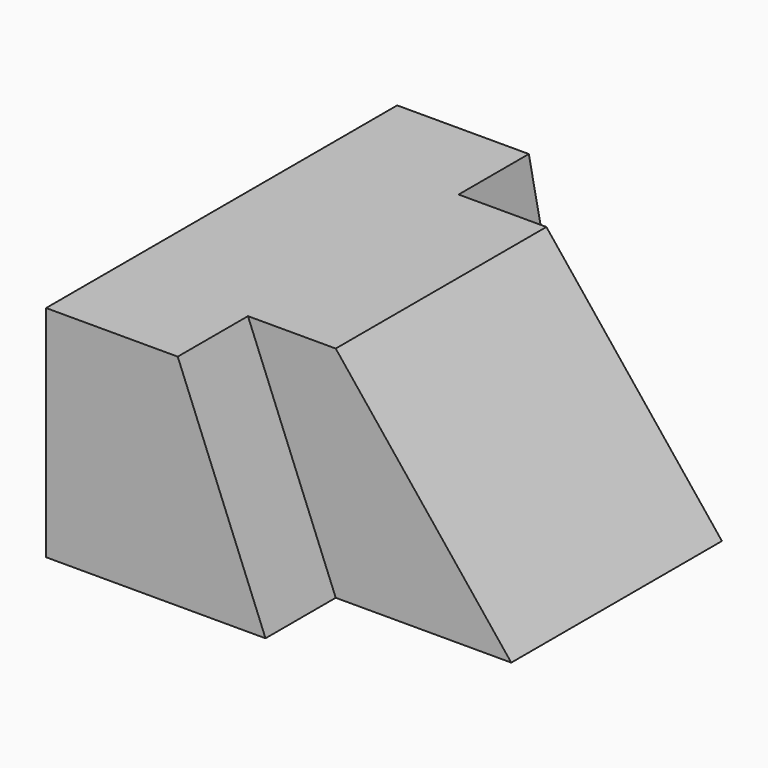
from build123d import *

# Parameters (mm, degrees)
F0_W      = 57.15
F0_H      = 31.75
F1_DEPTH  = 38.1
F3_DEPTH  = 12.7
F5_DEPTH  = 25.4
F6_DEPTH  = 12.7
F7_DEPTH  = 25.4
F9_DEPTH  = 25.4
F11_DEPTH = 50.8


with BuildPart() as f1:
    # F0 (on Front) → F1 (new body)
    with BuildSketch(Plane.XZ):
        with Locations((-1.4262031764, 0.0904835914)):
            Rectangle(F0_W, F0_H)
    extrude(amount=F1_DEPTH)

    # F2 (on face) → F3 (cut)
    with BuildSketch(Plane.XZ.offset(38.1)):
        Polygon((27.1487968236, 15.9654835914), (-10.9512031764, 15.9654835914), (1.7487968236, -15.7845164086), (27.1487968236, -15.7845164086), align=None)
    extrude(amount=-F3_DEPTH, mode=Mode.SUBTRACT)

    # F4 (on face) → F5 (join)
    with BuildSketch(Plane(origin=(0, 0, 0), x_dir=(-1, 0, 0), z_dir=(0, 1, 0))):
        Polygon((4.6012031764, -15.7845164086), (10.9512031764, 15.9654835914), (-27.1487968236, 15.9654835914), (-27.1487968236, -15.7845164086), align=None)
    extrude(amount=F5_DEPTH)

    # F6 (cut): a face of the model
    f6_faces = [f1.faces().sort_by_distance(p)[0] for p in [
        (9.638190763, 25.4, 0.5715441975),
    ]]
    extrude(f6_faces, amount=-F6_DEPTH, mode=Mode.SUBTRACT)

    # F7 (add): a face of the model
    f7_faces = [f1.faces().sort_by_distance(p)[0] for p in [
        (-18.8131079383, 0, -0.6654687896),
    ]]
    extrude(f7_faces, amount=F7_DEPTH)

    # F8 (on face) → F9 (cut)
    with BuildSketch(Plane.XZ.offset(25.4)):
        Polygon((27.1487968236, 15.9654835914), (14.4487968236, 15.9654835914), (27.1487968236, -15.7845164086), align=None)
    extrude(amount=-F9_DEPTH, mode=Mode.SUBTRACT)

    # F10 (on face) → F11 (cut)
    with BuildSketch(Plane(origin=(0, 12.7, 0), x_dir=(-1, 0, 0), z_dir=(0, 1, 0))):
        Polygon((-27.1487968236, -15.7845164086), (-1.7487968236, 15.9654835914), (-27.1487968236, 15.9654835914), align=None)
    extrude(amount=-F11_DEPTH, mode=Mode.SUBTRACT)


solid = f1.part
